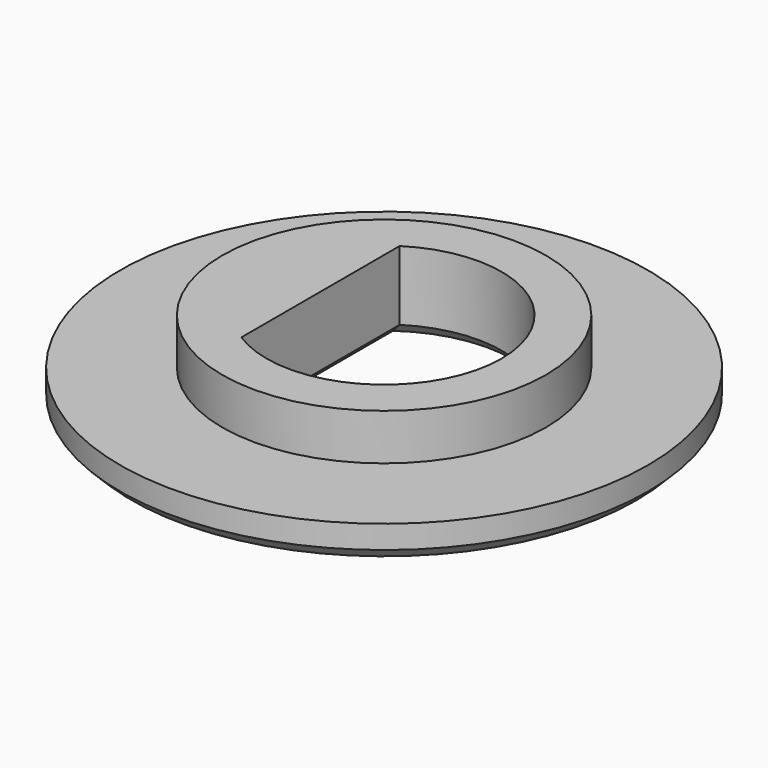
from build123d import *

# Parameters (mm, degrees)
F0_R     = 6.85
F1_DEPTH = 0.9
F2_R     = 4.2
F3_DEPTH = 1.2
F5_DEPTH = 2.1
F6_SIZE  = 0.3


with BuildPart() as f1:
    # F0 (on Top) → F1 (new body)
    with BuildSketch(Plane.XY):
        Circle(F0_R)
    extrude(amount=F1_DEPTH)

    # F2 (on face) → F3 (join)
    with BuildSketch(Plane.XY.offset(0.9)):
        Circle(F2_R)
    extrude(amount=F3_DEPTH)

    # F4 (on face) → F5 (cut, through all)
    with BuildSketch(Plane.XY.offset(2.1)):
        with BuildLine():
            ThreePointArc((-1.65, -2.5651510677), (1.4611639196, -2.677218706), (3.05, 0))
            ThreePointArc((3.05, 0), (1.4611639196, 2.677218706), (-1.65, 2.5651510677))
            Line((-1.65, 2.5651510677), (-1.65, -2.5651510677))
        make_face()
    extrude(amount=-F5_DEPTH, mode=Mode.SUBTRACT)

    # F6
    f6_edges = [f1.edges().sort_by_distance(p)[0] for p in [
        (-6.85, 0, 0),
        (3.05, 0, 0),
        (-1.65, 0, 0),
    ]]
    chamfer(f6_edges, length=F6_SIZE)


solid = f1.part
